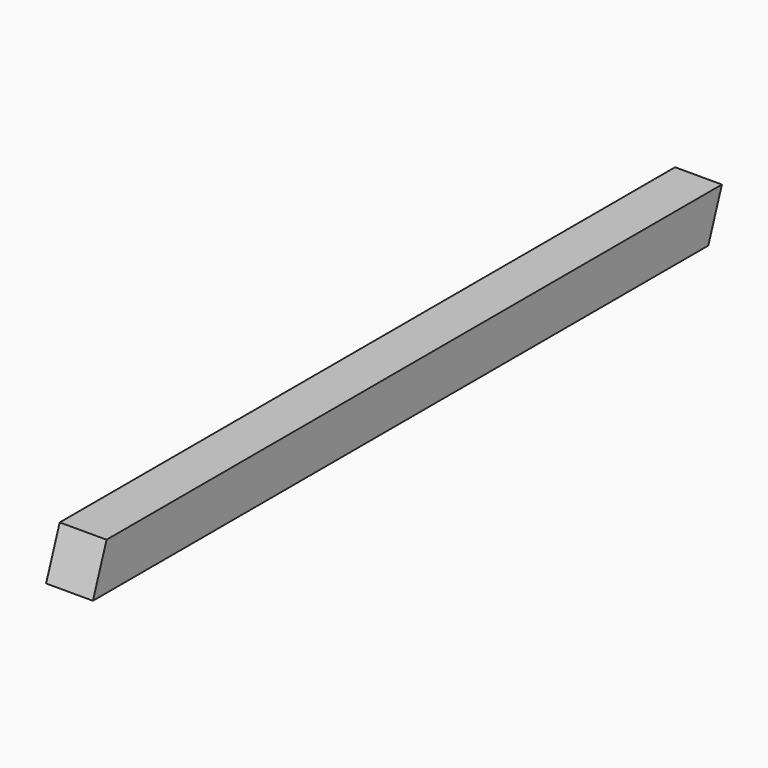
from build123d import *

# Parameters (mm, degrees)
F0_W     = 88.9
F0_H     = 88.9
F1_DEPTH = 746.125
F3_DEPTH = 254


with BuildPart() as f1:
    # F0 (on Front) → F1 (new body, symmetric)
    with BuildSketch(Plane.XZ):
        Rectangle(F0_W, F0_H)
    extrude(amount=F1_DEPTH, both=True)

    # F2 (on face) → F3 (cut, symmetric)
    with BuildSketch(Plane.YZ.offset(44.45)):
        Polygon((-746.125, 44.45), (-746.125, -44.45), (-713.7680461737, 44.45), align=None)
        Polygon((746.125, -44.45), (746.125, 44.45), (713.7680461737, -44.45), align=None)
    extrude(amount=F3_DEPTH, both=True, mode=Mode.SUBTRACT)


solid = f1.part
